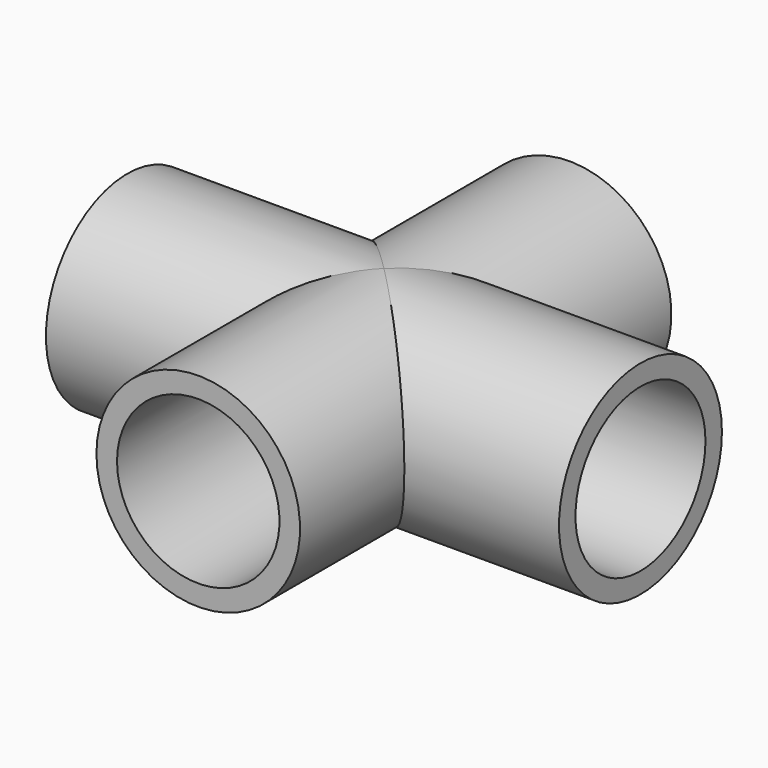
from build123d import *

# Parameters (mm, degrees)
F0_W     = 25.4
F0_H     = 3.3782
F0_W_2   = 3.3782
F0_W_3   = 13.335
F0_H_2   = 21.3868
F0_H_3   = 13.335
F3_R     = 13.335
F4_DEPTH = 84.2274001
F5_R     = 13.335
F6_DEPTH = 76.2010001


with BuildPart() as f1:
    # F0 (on Top) → F1 (revolve)
    with BuildSketch(Plane.XY):
        with Locations((-29.4132, 15.0241)):
            Rectangle(F0_W, F0_H)
        with Locations((-15.0241, 15.0241)):
            Rectangle(F0_W_2, F0_H)
        with Locations((-6.6675, 15.0241)):
            Rectangle(F0_W_3, F0_H)
        Polygon((13.335, 16.7132), (0, 16.7132), (0, 13.335), (3.2870748948, 13.335), (13.335, 13.335), align=None)
        with Locations((15.0241, 15.0241)):
            Rectangle(F0_W_2, F0_H)
        with Locations((29.4132, 15.0241)):
            Rectangle(F0_W, F0_H)
    revolve(axis=Axis((-21.0566, 0, 0), (-1, 0, 0)))

    # F0 (on Top) → F2 (revolve)
    with BuildSketch(Plane.XY):
        with Locations((-15.0241, -27.4066)):
            Rectangle(F0_W_2, F0_H_2)
        with Locations((-15.0241, -15.0241)):
            Rectangle(F0_W_2, F0_H)
        with Locations((-15.0241, -6.6675)):
            Rectangle(F0_W_2, F0_H_3)
        with Locations((-15.0241, 6.6675)):
            Rectangle(F0_W_2, F0_H_3)
        with Locations((-15.0241, 15.0241)):
            Rectangle(F0_W_2, F0_H)
        with Locations((-15.0241, 27.4066)):
            Rectangle(F0_W_2, F0_H_2)
    revolve(axis=Axis((0, 19.05, 0), (0, -1, 0)))

    # F3 (on face) → F4 (cut, through all)
    with BuildSketch(Plane.YZ.offset(42.1132)):
        Circle(F3_R)
    extrude(amount=-F4_DEPTH, mode=Mode.SUBTRACT)

    # F5 (on face) → F6 (cut, through all)
    with BuildSketch(Plane(origin=(0, 38.1, 0), x_dir=(-1, 0, 0), z_dir=(0, 1, 0))):
        Circle(F5_R)
    extrude(amount=-F6_DEPTH, mode=Mode.SUBTRACT)


solid = f1.part
